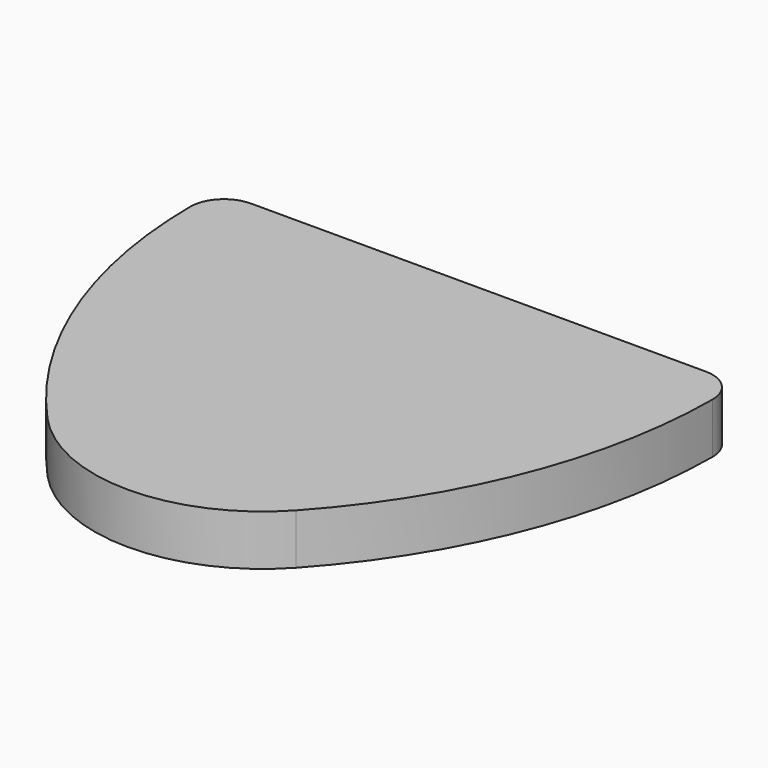
from build123d import *

# Parameters (mm, degrees)
F1_DEPTH = 3


with BuildPart() as f1:
    # F0 (on Top) → F1 (new body)
    with BuildSketch(Plane.XY):
        with BuildLine():
            Line((0, 0), (-13.5, 0))
            ThreePointArc((-13.5, 0), (-14.918332, -0.589917), (-15.499966, -2.011667))
            ThreePointArc((-15.499966, -2.011667), (-13.366498, -13.133654), (-7.380717, -22.747222))
            ThreePointArc((-7.380717, -22.747222), (0, -26), (7.380717, -22.747222))
            ThreePointArc((7.380717, -22.747222), (13.366498, -13.133654), (15.499966, -2.011667))
            ThreePointArc((15.499966, -2.011667), (14.918332, -0.589917), (13.5, 0))
            Line((13.5, 0), (0, 0))
        make_face()
    extrude(amount=F1_DEPTH)


solid = f1.part
